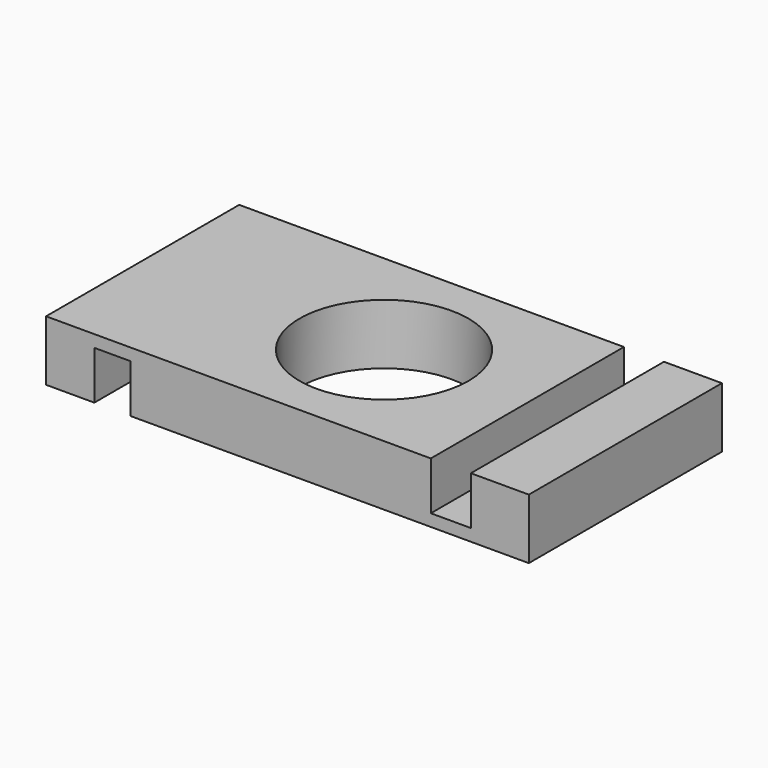
from build123d import *

# Parameters (mm, degrees)
F0_W     = 200
F0_H     = 100
F0_R     = 35
F1_DEPTH = 25
F3_W     = 16.588136
F3_H     = 100
F4_DEPTH = 20
F2_W     = 15
F2_H     = 103.238912
F5_DEPTH = 20


with BuildPart() as f1:
    # F0 (on Top) → F1 (new body)
    with BuildSketch(Plane.XY):
        Rectangle(F0_W, F0_H)
        Circle(F0_R, mode=Mode.SUBTRACT)
    extrude(amount=F1_DEPTH)

    # F3 (on face) → F4 (cut)
    with BuildSketch(Plane.XY.offset(25)):
        with Locations((67.693889, 0)):
            Rectangle(F3_W, F3_H)
    extrude(amount=-F4_DEPTH, mode=Mode.SUBTRACT)

    # F2 (on Top) → F5 (cut)
    with BuildSketch(Plane.XY):
        with Locations((-72.5, 0.087306)):
            Rectangle(F2_W, F2_H)
    extrude(amount=F5_DEPTH, mode=Mode.SUBTRACT)


solid = f1.part
